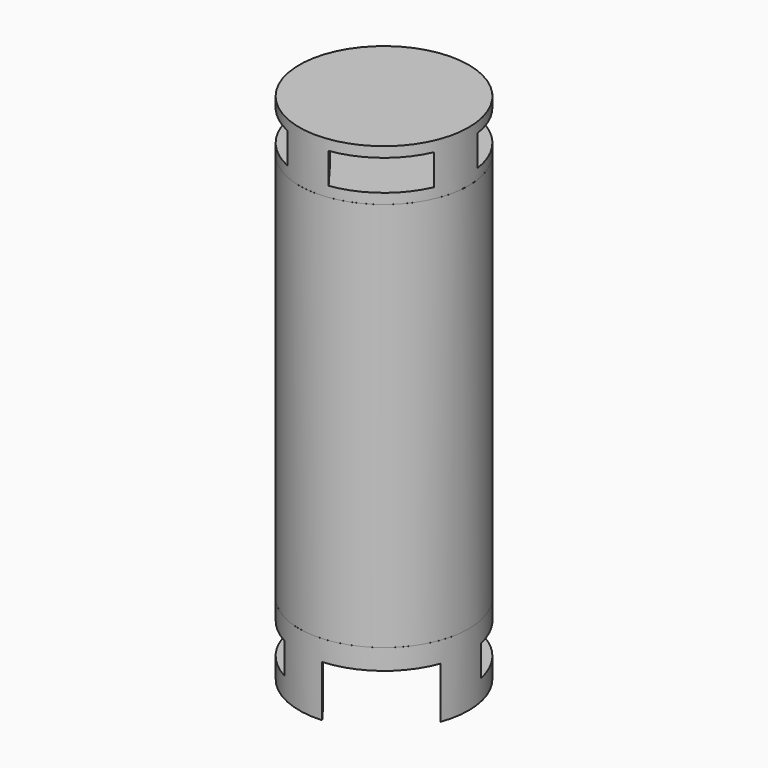
from build123d import *

# Parameters (mm, degrees)
F0_R      = 104.775
F1_DEPTH  = 482.6
F2_T      = -1.905
F4_R      = 104.775
F4_R_2    = 85.725
F5_DEPTH  = 88.9
F7_R      = 104.775
F8_DEPTH  = 63.5
F11_R     = 22.225
F12_DEPTH = 25.4
F14_W     = 101.6
F14_H     = 38.1
F14_H_2   = 50.8
F15_DEPTH = 251.4950231374
F16_W     = 101.6
F16_H     = 38.1
F17_DEPTH = 251.4950231374
F18_W     = 114.3
F18_H     = 63.5
F19_DEPTH = 251.4950231374
F20_W     = 88.9
F20_H     = 38.1
F21_DEPTH = 251.4950231374
F23_R     = 22.1996
F23_R_2   = 19.0246
F24_DEPTH = 127


with BuildPart() as f1:
    # F0 (on Top) → F1 (new body)
    with BuildSketch(Plane.XY):
        Circle(F0_R)
    extrude(amount=F1_DEPTH)

    # F2
    f2_openings = [f1.faces().sort_by_distance(p)[0] for p in [
        (0, 0, 0),
    ]]
    offset(amount=F2_T, openings=f2_openings)

    # F11 (on line) → F12 (cut)
    with BuildSketch(Plane(origin=(-63.0017904571, 83.7172325402, 0), x_dir=(-0.7990191605, -0.6013055639, 0), z_dir=(-0.6013055639, 0.7990191605, 0))):
        with Locations((0, 431.8)):
            Circle(F11_R)
    extrude(amount=-F12_DEPTH, mode=Mode.SUBTRACT)


with BuildPart() as f5:
    # F4 (on offset) → F5 (new body)
    with BuildSketch(Plane(origin=(0, 0, -0.0254), x_dir=(1, 0, 0), z_dir=(0, 0, -1))):
        Circle(F4_R)
        Circle(F4_R_2, mode=Mode.SUBTRACT)
    extrude(amount=F5_DEPTH)

    # F18 (on line) → F19 (cut, through all)
    with BuildSketch(Plane(origin=(-63.0017904571, 83.7172325402, 0), x_dir=(-0.7990191605, -0.6013055639, 0), z_dir=(-0.6013055639, 0.7990191605, 0))):
        with Locations((0, -57.1754)):
            Rectangle(F18_W, F18_H)
    extrude(amount=-F19_DEPTH, mode=Mode.SUBTRACT)

    # F20 (on line) → F21 (cut, through all)
    with BuildSketch(Plane(origin=(-83.7172325402, -63.0017904571, 0), x_dir=(0.6013055639, -0.7990191605, 0), z_dir=(-0.7990191605, -0.6013055639, 0))):
        with Locations((0, -44.4754)):
            Rectangle(F20_W, F20_H)
    extrude(amount=-F21_DEPTH, mode=Mode.SUBTRACT)


with BuildPart() as f8:
    # F7 (on offset) → F8 (new body)
    with BuildSketch(Plane.XY.offset(482.6254)):
        Circle(F7_R)
    extrude(amount=F8_DEPTH)

    # F14 (on line) → F15 (cut, through all)
    with BuildSketch(Plane(origin=(-83.7172325402, -63.0017904571, 0), x_dir=(0.6013055639, -0.7990191605, 0), z_dir=(-0.7990191605, -0.6013055639, 0))):
        with Locations((0, 514.3754)):
            Rectangle(F14_W, F14_H)
        with Locations((0, -44.4754)):
            Rectangle(F14_W, F14_H_2)
    extrude(amount=-F15_DEPTH, mode=Mode.SUBTRACT)

    # F16 (on line) → F17 (cut, through all)
    with BuildSketch(Plane(origin=(-63.0017904571, 83.7172325402, 0), x_dir=(-0.7990191605, -0.6013055639, 0), z_dir=(-0.6013055639, 0.7990191605, 0))):
        with Locations((0, 514.3754)):
            Rectangle(F16_W, F16_H)
    extrude(amount=-F17_DEPTH, mode=Mode.SUBTRACT)


with BuildPart() as f24:
    # F23 (on offset) → F24 (new body)
    with BuildSketch(Plane(origin=(-108.8212744259, 144.6024925695, 0), x_dir=(-0.7990191605, -0.6013055639, 0), z_dir=(-0.6013055639, 0.7990191605, 0))):
        with Locations((0, 431.8)):
            Circle(F23_R)
        with Locations((0, 431.8)):
            Circle(F23_R_2, mode=Mode.SUBTRACT)
    extrude(amount=-F24_DEPTH)


solid = Compound([f1.part, f5.part, f8.part, f24.part])
